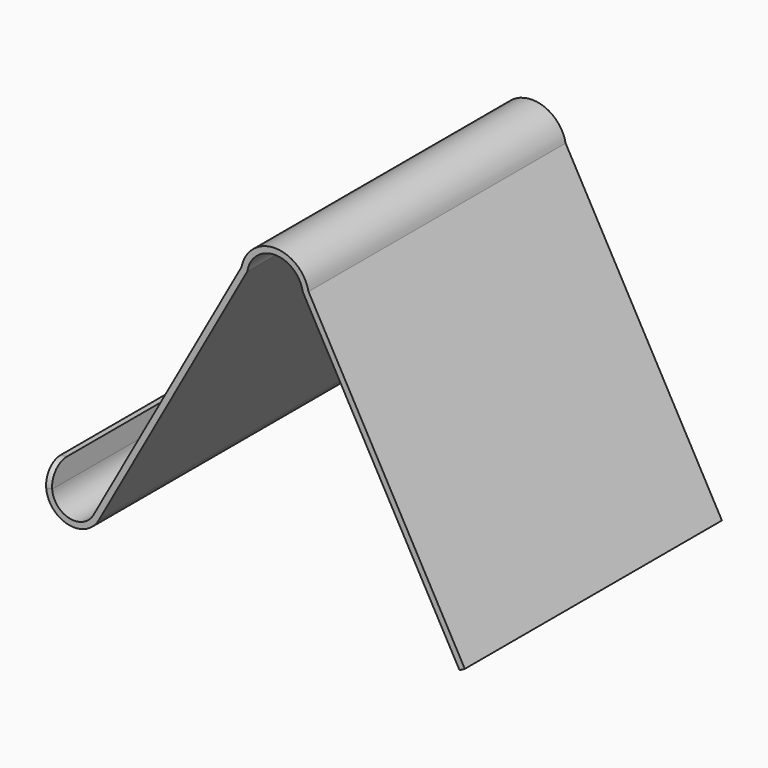
from build123d import *

# Parameters (mm, degrees)
F1_DEPTH = 80
F2_R     = 5


with BuildPart() as f1:
    # F0 (on Front) → F1 (new body)
    with BuildSketch(Plane.XZ):
        with BuildLine():
            Line((-67.196317063, 11.6099394371), (-66.8394768923, 6.6226891835))
            ThreePointArc((-66.8394768923, 6.6226891835), (-61.3703052093, 0.2877284566), (-53.7383902213, 3.7224686106))
            Line((-53.7383902213, 3.7224686106), (-16.7622813237, 70.2718737887))
            ThreePointArc((-16.7622813237, 70.2718737887), (-9.8573265372, 76.1222654224), (-2.9523717506, 70.2718737887))
            Line((-2.9523717506, 70.2718737887), (36.0698602417, 0.0398670893))
            Line((36.0698602417, 0.0398670893), (37.3810608808, 0.7683949775))
            Line((37.3810608808, 0.7683949775), (-1.5215702782, 70.78514473))
            ThreePointArc((-1.5215702782, 70.78514473), (-9.8573265372, 77.6222654224), (-18.1930827961, 70.78514473))
            Line((-18.1930827961, 70.78514473), (-55.0495908604, 4.4509964988))
            ThreePointArc((-55.0495908604, 4.4509964988), (-61.0460954938, 1.7522720921), (-65.3433018162, 6.7297412347))
            Line((-65.3433018162, 6.7297412347), (-65.7001419869, 11.7169914883))
            Line((-65.7001419869, 11.7169914883), (-67.196317063, 11.6099394371))
        make_face()
    extrude(amount=F1_DEPTH)

    # F2
    f2_edges = [f1.edges().sort_by_distance(p)[0] for p in [
        (-66.44823, -80, 11.663465),
    ]]
    fillet(f2_edges, radius=F2_R)


solid = f1.part
